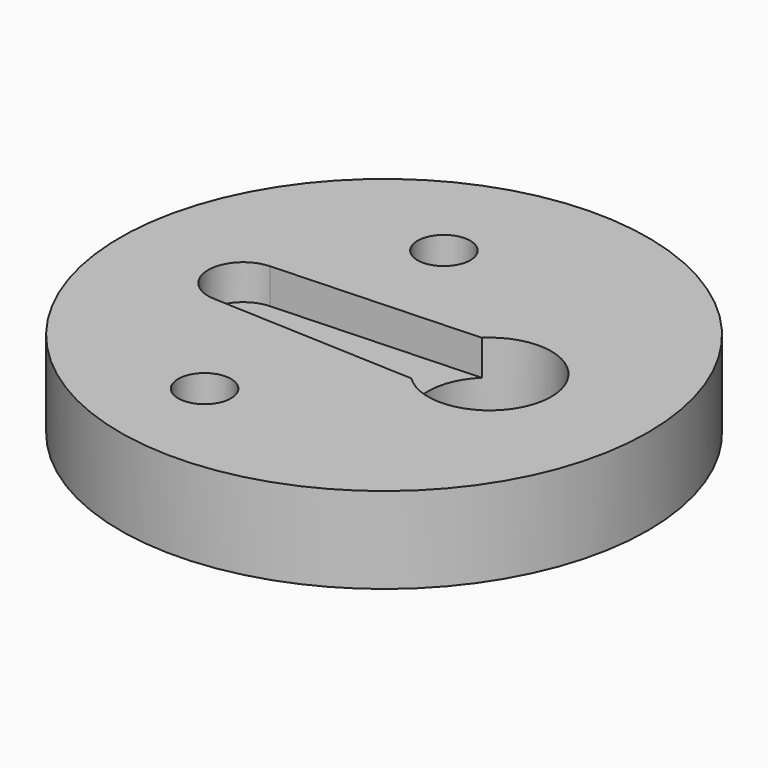
from build123d import *

# Parameters (mm, degrees)
CYLINDER009_R     = 1.5
CYLINDER009_DEPTH = 10
CYLINDER008_R     = 1.5
CYLINDER008_DEPTH = 10
CYLINDER001_R     = 3.5
CYLINDER001_DEPTH = 20
PAD_DEPTH         = 2
CYLINDER_R        = 15
CYLINDER_DEPTH    = 4.9


with BuildPart() as cilindro009:
    # Cylinder009 → Cylinder009 (new body)
    with BuildSketch(Plane(origin=(-3, 14, 24), x_dir=(1, 0, 0), z_dir=(0, 0, 1))):
        Circle(CYLINDER009_R)
    extrude(amount=CYLINDER009_DEPTH)


with BuildPart() as cilindro008:
    # Cylinder008 → Cylinder008 (new body)
    with BuildSketch(Plane(origin=(-3, -3, 24), x_dir=(1, 0, 0), z_dir=(0, 0, 1))):
        Circle(CYLINDER008_R)
    extrude(amount=CYLINDER008_DEPTH)


with BuildPart() as cilindro001:
    # Cylinder001 → Cylinder001 (new body)
    with BuildSketch(Plane(origin=(6, 6, 22), x_dir=(1, 0, 0), z_dir=(0, 0, 1))):
        Circle(CYLINDER001_R)
    extrude(amount=CYLINDER001_DEPTH)


with BuildPart() as pad:
    # Sketch → Pad (new body)
    with BuildSketch(Plane(origin=(6, 6, 31.6), x_dir=(-1, 0, 0), z_dir=(0, 0, -1))):
        with BuildLine():
            ThreePointArc((14.086174, -1.998143), (16, 0), (14.086174, 1.998143))
            Line((2.44949, 2.5), (14.086174, 1.998143))
            Line((2.44949, 2.5), (2.44949, -2.5))
            Line((2.44949, -2.5), (14.086174, -1.998143))
        make_face()
    extrude(amount=PAD_DEPTH)


with BuildPart() as base:
    # Cylinder → Cylinder (new body)
    with BuildSketch(Plane(origin=(0, 6, 26.7), x_dir=(1, 0, 0), z_dir=(0, 0, 1))):
        Circle(CYLINDER_R)
    extrude(amount=CYLINDER_DEPTH)

    # Cut: cut Pad
    add(pad.part, mode=Mode.SUBTRACT)

    # Cut001: cut Cilindro001
    add(cilindro001.part, mode=Mode.SUBTRACT)

    # Cut009: cut Cilindro008
    add(cilindro008.part, mode=Mode.SUBTRACT)

    # Cut010: cut Cilindro009
    add(cilindro009.part, mode=Mode.SUBTRACT)


solid = base.part
